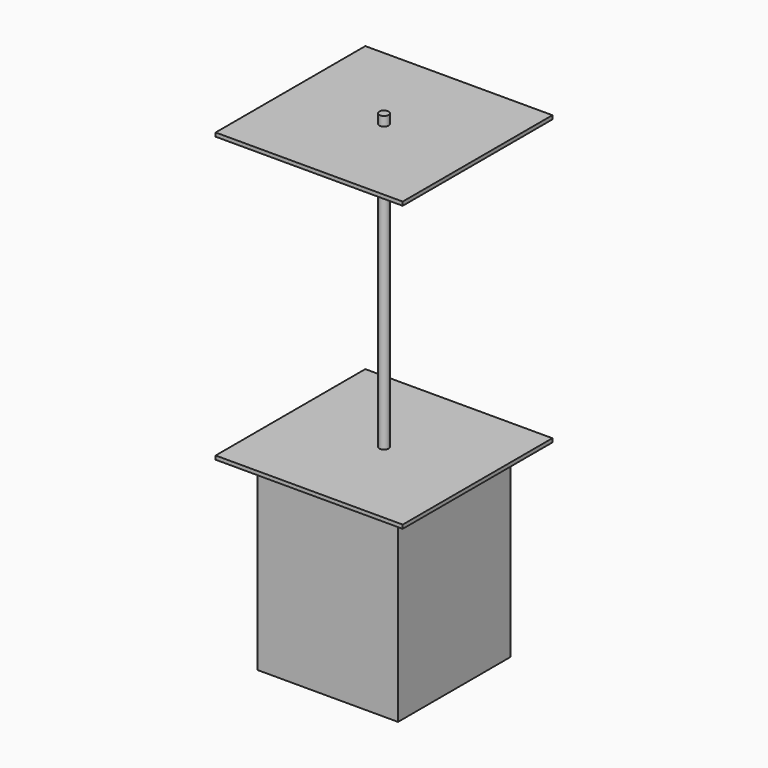
from build123d import *

# Parameters (mm, degrees)
F0_W     = 750
F0_H     = 750
F1_DEPTH = 1000
F2_W     = 1000
F2_H     = 1000
F2_W_2   = 750
F2_H_2   = 750
F3_DEPTH = 20
F4_R     = 25
F5_DEPTH = 1500
F6_W     = 1000
F6_H     = 1000
F6_R     = 25
F7_DEPTH = 20
F8_R     = 25
F9_DEPTH = 70


with BuildPart() as f1:
    # F0 (on Top) → F1 (new body)
    with BuildSketch(Plane.XY):
        Rectangle(F0_W, F0_H)
    extrude(amount=F1_DEPTH)

    # F2 (on face) → F3 (join)
    with BuildSketch(Plane.XY.offset(1000)):
        Rectangle(F2_W, F2_H)
        Rectangle(F2_W_2, F2_H_2, mode=Mode.SUBTRACT)
        Rectangle(F2_W_2, F2_H_2)
        Rectangle(F2_W, F2_H)
    extrude(amount=F3_DEPTH)

    # F4 (on face) → F5 (join)
    with BuildSketch(Plane.XY.offset(1020)):
        Circle(F4_R)
    extrude(amount=F5_DEPTH)


with BuildPart() as f7:
    # F6 (on face) → F7 (new body)
    with BuildSketch(Plane.XY.offset(2520)):
        Rectangle(F6_W, F6_H)
        Circle(F6_R, mode=Mode.SUBTRACT)
    extrude(amount=F7_DEPTH)


with BuildPart() as f9:
    # F8 (on face) → F9 (new body)
    with BuildSketch(Plane.XY.offset(2520)):
        Circle(F8_R)
    extrude(amount=F9_DEPTH)


solid = Compound([f1.part, f7.part, f9.part])
